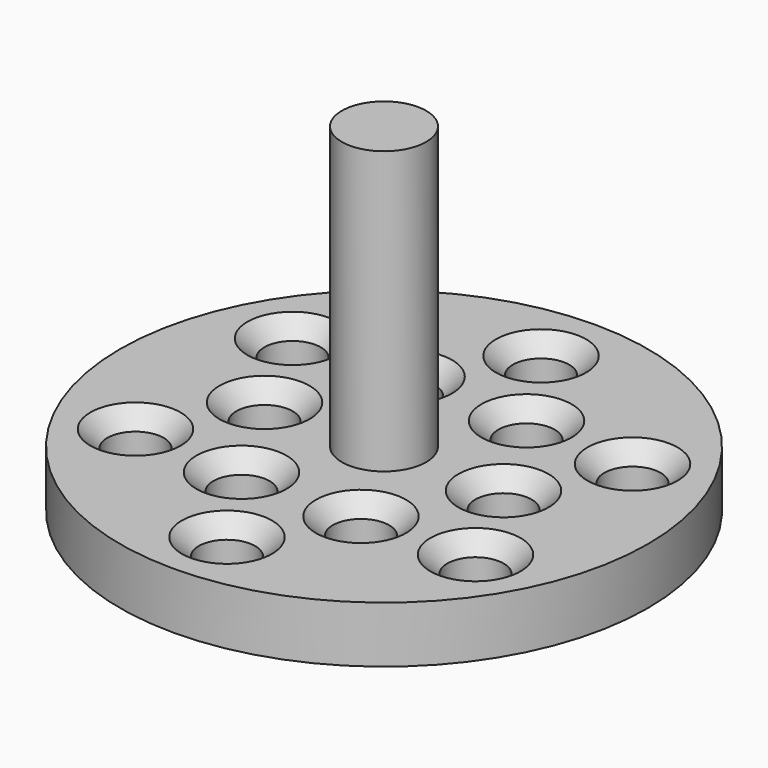
from build123d import *

# Parameters (mm, degrees)
F0_W           = 50
F0_H           = 50
F1_DEPTH       = 5
F3_D           = 5
F3_CSINK_D     = 8
F3_CSINK_ANGLE = 90
F4_R           = 23.40982
F5_DEPTH       = 25
F7_D           = 5
F7_CSINK_D     = 8
F7_CSINK_ANGLE = 90
F8_R           = 3.742028
F9_DEPTH       = 25


with BuildPart() as f1:
    # F0 (on Top) → F1 (new body)
    with BuildSketch(Plane.XY):
        Rectangle(F0_W, F0_H)
    extrude(amount=F1_DEPTH)

    # F3 (through all)
    with Locations(Plane.XY.offset(5)):
        with Locations((0, 17.408038), (15.075803, 8.704019), (15.075803, -8.704019), (0, -17.408038), (-15.075803, -8.704019), (-15.075803, 8.704019)):
            CounterSinkHole(F3_D / 2, F3_CSINK_D / 2, counter_sink_angle=F3_CSINK_ANGLE)

    # F4 (on face) → F5 (intersect)
    with BuildSketch(Plane.XY.offset(5)):
        Circle(F4_R)
    extrude(amount=-F5_DEPTH, mode=Mode.INTERSECT)

    # F7 (through all)
    with Locations(Plane.XY.offset(5)):
        with Locations((-5.298098, 9.176576), (5.298098, 9.176576), (10.596197, 0), (5.298098, -9.176576), (-5.298098, -9.176576), (-10.596197, 0)):
            CounterSinkHole(F7_D / 2, F7_CSINK_D / 2, counter_sink_angle=F7_CSINK_ANGLE)

    # F8 (on face) → F9 (join)
    with BuildSketch(Plane.XY.offset(5)):
        Circle(F8_R)
    extrude(amount=F9_DEPTH)


solid = f1.part
